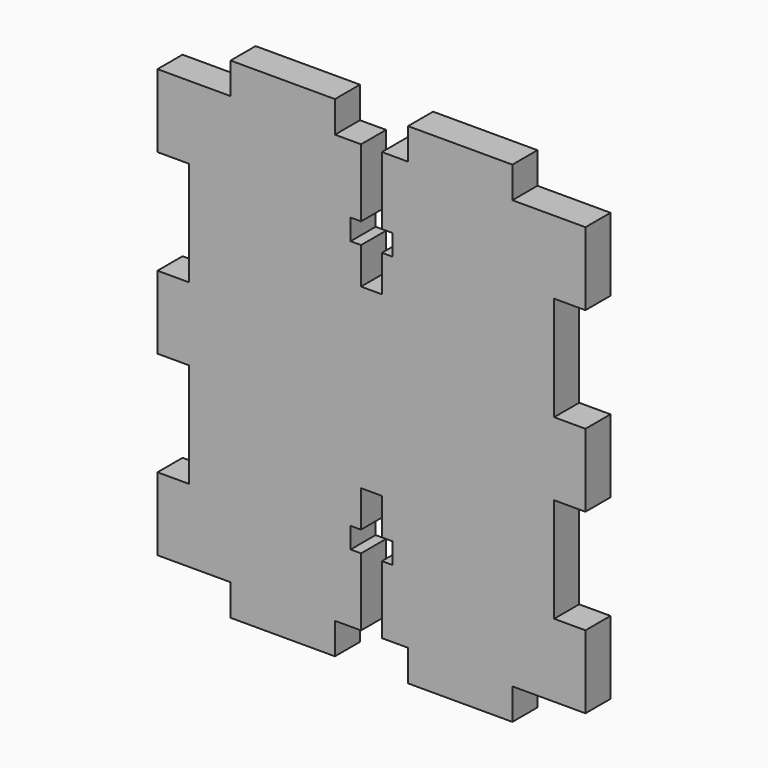
from build123d import *

# Parameters (mm, degrees)
F1_DEPTH = 3


with BuildPart() as f1:
    # F0 (on Front) → F1 (new body)
    with BuildSketch(Plane.XZ):
        Polygon((0, 0), (3, 0), (3, 7), (0, 7), (0, 17), (3, 17), (3, 24), (0, 24), (0, 34), (3, 34), (3, 41), (-4, 41), (-4, 44), (-14, 44), (-14, 41), (-16.5, 41), (-16.5, 34.5), (-15.5, 34.5), (-15.5, 32.5), (-16.5, 32.5), (-16.5, 29), (-18.5, 29), (-18.5, 32.5), (-19.5, 32.5), (-19.5, 34.5), (-18.5, 34.5), (-18.5, 41), (-21, 41), (-21, 44), (-31, 44), (-31, 41), (-38, 41), (-38, 34), (-35, 34), (-35, 24), (-38, 24), (-38, 17), (-35, 17), (-35, 7), (-38, 7), (-38, 0), (-31, 0), (-31, -3), (-21, -3), (-21, 0), (-18.5, 0), (-18.5, 6.5), (-19.5, 6.5), (-19.5, 8.5), (-18.5, 8.5), (-18.5, 12), (-16.5, 12), (-16.5, 8.5), (-15.5, 8.5), (-15.5, 6.5), (-16.5, 6.5), (-16.5, 0), (-14, 0), (-14, -3), (-4, -3), (-4, 0), align=None)
    extrude(amount=F1_DEPTH)


solid = f1.part
